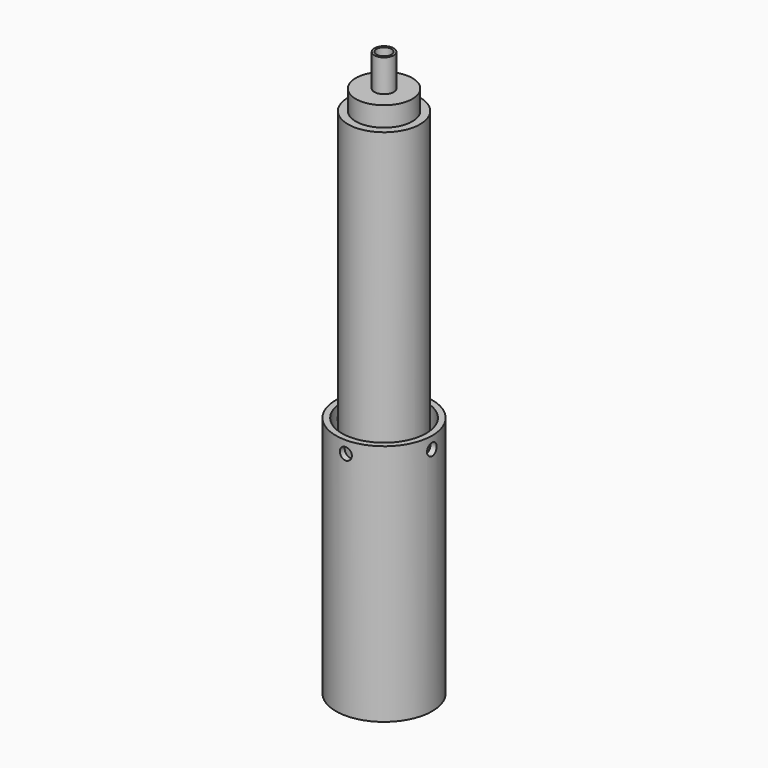
from build123d import *

# Parameters (mm, degrees)
F0_R           = 25.344518306
F1_DEPTH       = 127.762
F2_R           = 22.1745726993
F3_DEPTH       = 127.763
F4_R           = 18.9955290519
F4_R_2         = 14.9055490035
F5_DEPTH       = 142.24
F6_DEPTH       = 25.4
F7_R           = 3.175
F8_DEPTH       = 25.345518306
F8_DEPTH_BACK  = 25.4
F9_R           = 3.175
F10_DEPTH      = 25.345518406
F10_DEPTH_BACK = 25.4
F13_R          = 14.9055490035
F14_DEPTH      = 10.414
F15_R          = 5.0822027906
F16_DEPTH      = 17.018
F17_R          = 3.9685547881
F18_DEPTH      = 302.515


with BuildPart() as f1:
    # F0 (on Top) → F1 (new body)
    with BuildSketch(Plane.XY):
        Circle(F0_R)
    extrude(amount=F1_DEPTH)

    # F2 (on face) → F3 (cut, through all)
    with BuildSketch(Plane.XY.offset(127.762)):
        Circle(F2_R)
    extrude(amount=-F3_DEPTH, mode=Mode.SUBTRACT)


with BuildPart() as f5:
    # F4 (on face) → F5 (new body)
    with BuildSketch(Plane.XY.offset(127.762)):
        Circle(F4_R)
        Circle(F4_R_2, mode=Mode.SUBTRACT)
    extrude(amount=F5_DEPTH)

    # F4 (on face) → F6 (join)
    with BuildSketch(Plane.XY.offset(127.762)):
        Circle(F4_R)
        Circle(F4_R_2, mode=Mode.SUBTRACT)
    extrude(amount=-F6_DEPTH)


with BuildPart() as f8_tool:
    # F7 (on Right) → F8 (new body, two sides)
    with BuildSketch(Plane.YZ) as f8_sk:
        with Locations((0, 121.412)):
            Circle(F7_R)
    extrude(amount=-F8_DEPTH)
    extrude(f8_sk.sketch, amount=F8_DEPTH_BACK)


with BuildPart() as f1_1:
    add(f1.part)

    # F8: cut by f8_tool
    add(f8_tool.part, mode=Mode.SUBTRACT)


with BuildPart() as f5_1:
    add(f5.part)

    # F8: cut by f8_tool
    add(f8_tool.part, mode=Mode.SUBTRACT)


with BuildPart() as f10_tool:
    # F9 (on Front) → F10 (new body, two sides)
    with BuildSketch(Plane.XZ) as f10_sk:
        with Locations((0, 121.412)):
            Circle(F9_R)
    extrude(amount=-F10_DEPTH)
    extrude(f10_sk.sketch, amount=F10_DEPTH_BACK)


with BuildPart() as f1_2:
    add(f1_1.part)

    # F10: cut by f10_tool
    add(f10_tool.part, mode=Mode.SUBTRACT)


with BuildPart() as f5_2:
    add(f5_1.part)

    # F10: cut by f10_tool
    add(f10_tool.part, mode=Mode.SUBTRACT)


with BuildPart() as f12:
    # F11 (on Right) → F12 (revolve)
    with BuildSketch(Plane.YZ):
        with BuildLine():
            Line((0, 0), (-22.1745726993, 0))
            ThreePointArc((-22.1745726993, 0), (-11.3745117961, -3.7937601462), (0, -5.08))
            Line((0, -5.08), (0, 0))
        make_face()
    revolve(axis=Axis((0, 0, -2.54), (0, 0, -1)))


with BuildPart() as f14:
    # F13 (on face) → F14 (new body)
    with BuildSketch(Plane.XY.offset(270.002)):
        Circle(F13_R)
    extrude(amount=F14_DEPTH)

    # F15 (on face) → F16 (join)
    with BuildSketch(Plane.XY.offset(280.416)):
        Circle(F15_R)
    extrude(amount=F16_DEPTH)

    # F17 (on face) → F18 (cut, through all)
    with BuildSketch(Plane.XY.offset(297.434)):
        Circle(F17_R)
    extrude(amount=-F18_DEPTH, mode=Mode.SUBTRACT)


solid = Compound([f1_2.part, f5_2.part, f12.part, f14.part])
